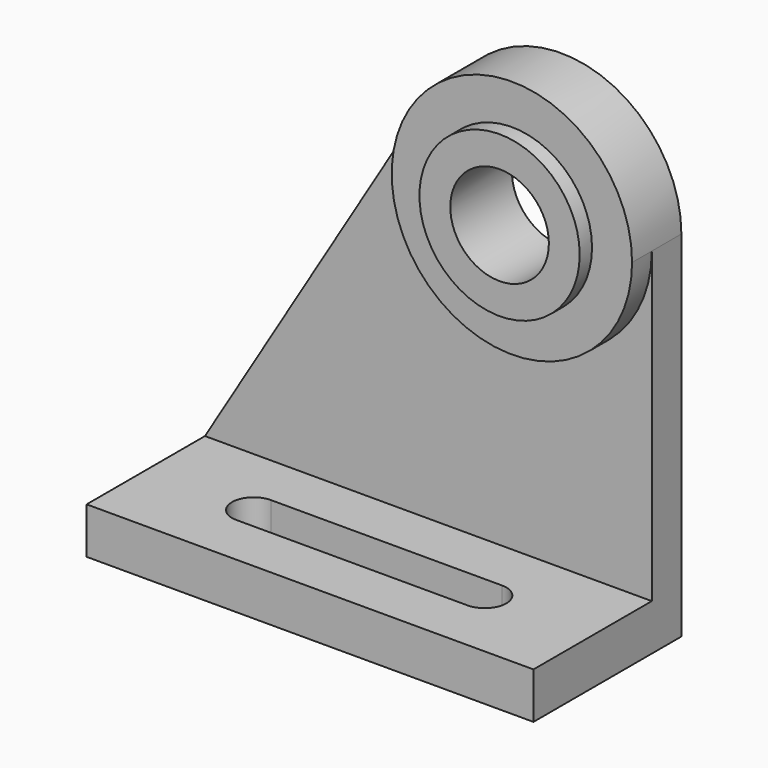
from build123d import *

# Parameters (mm, degrees)
F0_R     = 26
F0_R_2   = 16
F1_DEPTH = 25
F2_DEPTH = 20
F3_DEPTH = 12
F0_W     = 145
F0_H     = 15
F4_DEPTH = 60
F6_DEPTH = 25


with BuildPart() as f1:
    # F0 (on Front) → F1 (new body)
    with BuildSketch(Plane.XZ):
        with Locations((23.226776, 54.015426)):
            Circle(F0_R)
        with Locations((23.226776, 54.015426)):
            Circle(F0_R_2, mode=Mode.SUBTRACT)
    extrude(amount=F1_DEPTH)

    # F0 (on Front) → F2 (join)
    with BuildSketch(Plane.XZ):
        with BuildLine():
            ThreePointArc((62.226776, 54.015426), (33.696714, 91.583769), (-10.151705, 74.186617))
            ThreePointArc((-10.151705, 74.186617), (12.756838, 16.447083), (62.226776, 54.015426))
        make_face()
        with Locations((23.226776, 54.015426)):
            Circle(F0_R, mode=Mode.SUBTRACT)
    extrude(amount=F2_DEPTH)

    # F0 (on Front) → F3 (join)
    with BuildSketch(Plane.XZ):
        with BuildLine():
            Line((-10.151705, 74.186617), (-82.773224, -45.984574))
            Line((-82.773224, -45.984574), (62.226776, -45.984574))
            Line((62.226776, -45.984574), (62.226776, 54.015426))
            ThreePointArc((62.226776, 54.015426), (12.756838, 16.447083), (-10.151705, 74.186617))
        make_face()
    extrude(amount=F3_DEPTH)

    # F0 (on Front) → F4 (join)
    with BuildSketch(Plane.XZ):
        with Locations((-10.273224, -53.484574)):
            Rectangle(F0_W, F0_H)
    extrude(amount=F4_DEPTH)

    # F5 (on face) → F6 (cut)
    with BuildSketch(Plane.XY.offset(-45.984574)):
        with BuildLine():
            Line((27.226776, -29), (-47.773224, -29))
            ThreePointArc((-47.773224, -29), (-54.773224, -36), (-47.773224, -43))
            Line((-47.773224, -43), (27.226776, -43))
            ThreePointArc((27.226776, -43), (34.226776, -36), (27.226776, -29))
        make_face()
    extrude(amount=-F6_DEPTH, mode=Mode.SUBTRACT)


solid = f1.part
